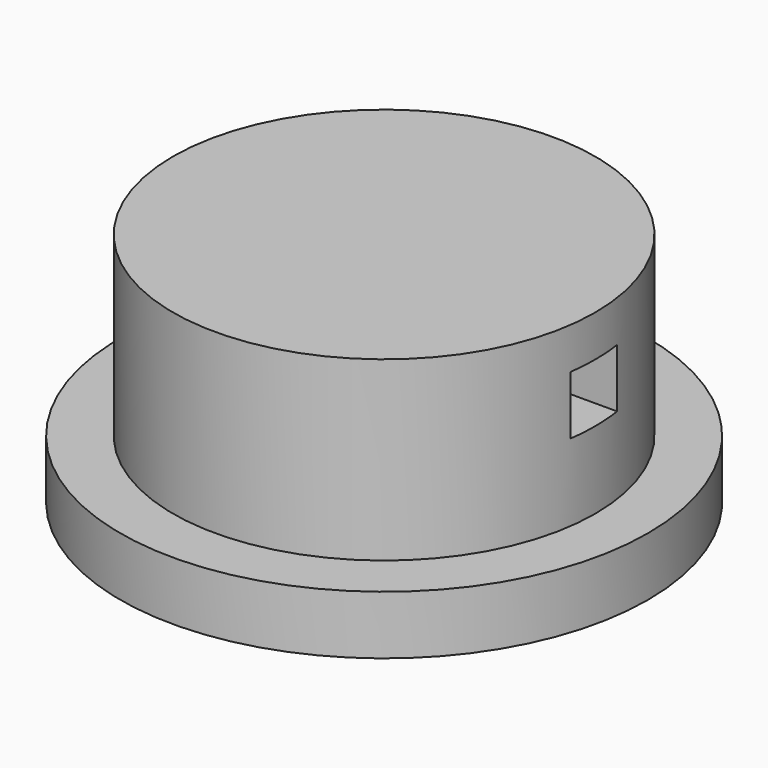
from build123d import *

# Parameters (mm, degrees)
F0_R          = 18
F0_R_2        = 16
F1_DEPTH      = 20.1
F0_R_3        = 22.5
F2_DEPTH      = 5
F3_W          = 5
F3_H          = 5
F4_DEPTH      = 25
F4_DEPTH_BACK = 25


with BuildPart() as f1:
    # F0 (on Top) → F1 (new body)
    with BuildSketch(Plane.XY):
        Circle(F0_R)
        Circle(F0_R_2, mode=Mode.SUBTRACT)
        Circle(F0_R_2)
    extrude(amount=F1_DEPTH)

    # F0 (on Top) → F2 (join)
    with BuildSketch(Plane.XY):
        Circle(F0_R_3)
        Circle(F0_R, mode=Mode.SUBTRACT)
    extrude(amount=F2_DEPTH)

    # F3 (on Right) → F4 (cut, two sides)
    with BuildSketch(Plane.YZ) as f4_sk:
        with Locations((0.061292029, 14.0744583309)):
            Rectangle(F3_W, F3_H)
    extrude(amount=F4_DEPTH, mode=Mode.SUBTRACT)
    extrude(f4_sk.sketch, amount=-F4_DEPTH_BACK, mode=Mode.SUBTRACT)


solid = f1.part
